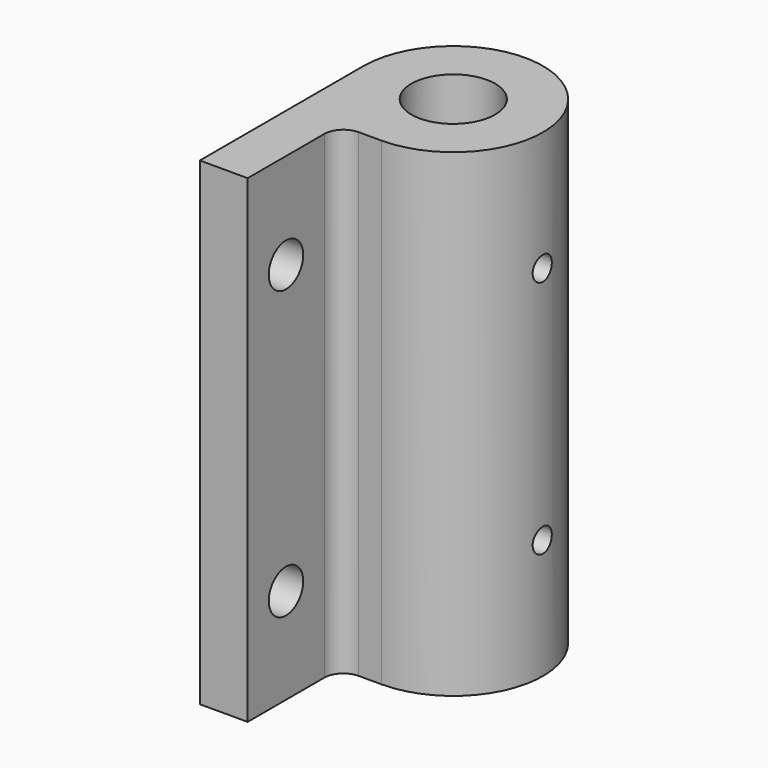
from build123d import *

# Parameters (mm, degrees)
F0_R     = 4.375
F1_DEPTH = 50
F2_R     = 1.25
F3_DEPTH = 12.5
F4_R     = 2.25
F5_DEPTH = 5.001


with BuildPart() as f1:
    # F0 (on Top) → F1 (new body)
    with BuildSketch(Plane.XY):
        with BuildLine():
            Line((-2.375, -9.375), (0, -9.375))
            ThreePointArc((0, -9.375), (6.629126, 6.629126), (-9.375, 0))
            Line((-9.375, 0), (-9.375, -21.375))
            Line((-9.375, -21.375), (-4.375, -21.375))
            Line((-4.375, -21.375), (-4.375, -11.375))
            ThreePointArc((-4.375, -11.375), (-3.789214, -9.960786), (-2.375, -9.375))
        make_face()
        Circle(F0_R, mode=Mode.SUBTRACT)
        with BuildLine():
            Line((-2.375, -9.375), (0, -9.375))
            ThreePointArc((0, -9.375), (6.629126, 6.629126), (-9.375, 0))
            Line((-9.375, 0), (-9.375, -21.375))
            Line((-9.375, -21.375), (-4.375, -21.375))
            Line((-4.375, -21.375), (-4.375, -11.375))
            ThreePointArc((-4.375, -11.375), (-3.789214, -9.960786), (-2.375, -9.375))
        make_face()
        Circle(F0_R, mode=Mode.SUBTRACT)
        with BuildLine():
            Line((-2.375, -9.375), (0, -9.375))
            ThreePointArc((0, -9.375), (6.629126, 6.629126), (-9.375, 0))
            Line((-9.375, 0), (-9.375, -21.375))
            Line((-9.375, -21.375), (-4.375, -21.375))
            Line((-4.375, -21.375), (-4.375, -11.375))
            ThreePointArc((-4.375, -11.375), (-3.789214, -9.960786), (-2.375, -9.375))
        make_face()
        Circle(F0_R, mode=Mode.SUBTRACT)
    extrude(amount=F1_DEPTH)

    # F2 (on Right) → F3 (cut, symmetric)
    with BuildSketch(Plane.YZ):
        with Locations((0, 12.5)):
            Circle(F2_R)
        with Locations((0, 37.5)):
            Circle(F2_R)
    extrude(amount=F3_DEPTH, both=True, mode=Mode.SUBTRACT)

    # F4 (on face) → F5 (cut, through all)
    with BuildSketch(Plane.YZ.offset(-4.375)):
        with Locations((-16.375, 40)):
            Circle(F4_R)
        with Locations((-16.375, 10)):
            Circle(F4_R)
    extrude(amount=-F5_DEPTH, mode=Mode.SUBTRACT)


solid = f1.part
